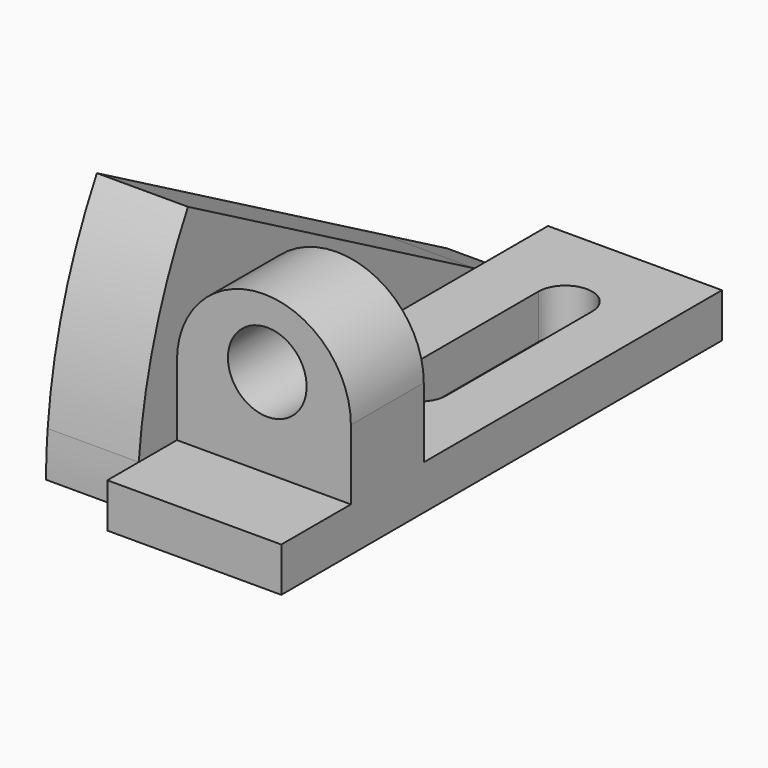
from build123d import *

# Parameters (mm, degrees)
F0_W          = 42
F0_H          = 16
F1_DEPTH      = 133
F2_W          = 21
F2_H          = 52.7929635726
F3_DEPTH      = 20.1831926579
F4_W          = 21
F4_H          = 40.5876869309
F5_DEPTH      = 25
F6_W          = 90
F6_H          = 45.8940723884
F7_DEPTH      = 20.1831926579
F7_DEPTH_BACK = 25
F11_DEPTH     = 22
F13_DEPTH     = 25
F12_R         = 9.5
F14_DEPTH     = 25


with BuildPart() as f1:
    # F0 (on Front) → F1 (new body)
    with BuildSketch(Plane.XZ):
        with Locations((-0.8178073421, 8)):
            Rectangle(F0_W, F0_H)
        with BuildLine():
            Line((-21.8178073421, 27.5982314394), (-21.8178073421, 16))
            Line((-21.8178073421, 16), (20.1821926579, 16))
            Line((20.1821926579, 16), (20.1821926579, 27.5982314394))
            ThreePointArc((20.1821926579, 27.5982314394), (-0.8178073421, 48.5982314394), (-21.8178073421, 27.5982314394))
        make_face()
    extrude(amount=F1_DEPTH)

    # F2 (on Right) → F3 (cut, through all)
    with BuildSketch(Plane.YZ):
        with Locations((-122.5, 37.0988822573)):
            Rectangle(F2_W, F2_H)
    extrude(amount=F3_DEPTH, mode=Mode.SUBTRACT)

    # F4 (on face) → F5 (cut)
    with BuildSketch(Plane.YZ):
        with Locations((-122.5, 30.9962439364)):
            Rectangle(F4_W, F4_H)
    extrude(amount=-F5_DEPTH, mode=Mode.SUBTRACT)

    # F6 (on Right) → F7 (cut, two sides)
    with BuildSketch(Plane.YZ) as f7_sk:
        with Locations((-45, 33.6494366652)):
            Rectangle(F6_W, F6_H)
    extrude(amount=F7_DEPTH, mode=Mode.SUBTRACT)
    extrude(f7_sk.sketch, amount=-F7_DEPTH_BACK, mode=Mode.SUBTRACT)

    # F10 (on face) → F11 (join)
    with BuildSketch(Plane(origin=(-21.8178073421, 0, 0), x_dir=(0, -1, 0), z_dir=(-1, 0, 0))):
        with BuildLine():
            ThreePointArc((123.5257591727, 10.702400471), (118.6419482908, 35.6081422643), (108.6703372937, 58.9472630089))
            Line((108.6703372937, 58.9472630089), (22.1853906338, 10.702400471))
            Line((22.1853906338, 10.702400471), (90, 10.702400471))
            Line((90, 10.702400471), (90, 27.5982314394))
            Line((90, 27.5982314394), (112, 27.5982314394))
            Line((112, 27.5982314394), (112, 10.702400471))
            Line((112, 10.702400471), (123.5257591727, 10.702400471))
        make_face()
        with BuildLine():
            ThreePointArc((124, 0), (123.8813816514, 5.3564512553), (123.5257591727, 10.702400471))
            Line((123.5257591727, 10.702400471), (112, 10.702400471))
            Line((112, 10.702400471), (112, 27.5982314394))
            Line((112, 27.5982314394), (90, 27.5982314394))
            Line((90, 27.5982314394), (90, 10.702400471))
            Line((90, 10.702400471), (22.1853906338, 10.702400471))
            Line((22.1853906338, 10.702400471), (3, 0))
            Line((3, 0), (124, 0))
        make_face()
    extrude(amount=F11_DEPTH)

    # F8 (on face) → F13 (cut)
    with BuildSketch(Plane.XY.offset(10.702400471)):
        with BuildLine():
            ThreePointArc((6.5, -22.0442066215), (0, -15.5442066215), (-6.5, -22.0442066215))
            Line((-6.5, -22.0442066215), (-6.5, -66.0442066215))
            ThreePointArc((-6.5, -66.0442066215), (0, -72.5442066215), (6.5, -66.0442066215))
            Line((6.5, -66.0442066215), (6.5, -22.0442066215))
        make_face()
    extrude(amount=-F13_DEPTH, mode=Mode.SUBTRACT)

    # F12 (on face) → F14 (cut)
    with BuildSketch(Plane(origin=(0, -90, 0), x_dir=(-1, 0, 0), z_dir=(0, 1, 0))):
        with Locations((0, 32.2404283148)):
            Circle(F12_R)
    extrude(amount=-F14_DEPTH, mode=Mode.SUBTRACT)


solid = f1.part
